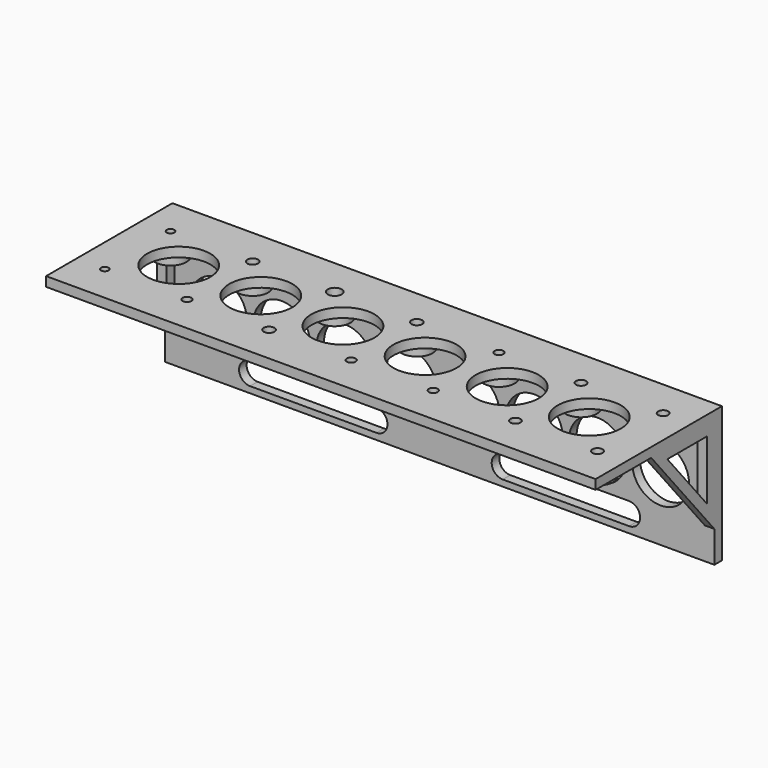
from build123d import *

# Parameters (mm, degrees)
SKETCH_W      = 174
SKETCH_H      = 50
SKETCH_R      = 1.2
SKETCH_R_2    = 1.7
SKETCH_R_3    = 1.4
SKETCH_R_4    = 2.2
SKETCH_R_5    = 1.6
SKETCH_R_6    = 10
PAD_DEPTH     = 3
SKETCH002_W   = 174
SKETCH002_H   = 40
SKETCH002_R   = 9
SKETCH002_R_2 = 1.5
PAD002_DEPTH  = 3
PAD003_DEPTH  = 3
PAD004_DEPTH  = 3
SKETCH001_R   = 5
SKETCH001_R_2 = 1.2
SKETCH001_R_3 = 1.7
SKETCH001_R_4 = 1.4
SKETCH001_R_5 = 2.2
SKETCH001_R_6 = 1.6
PAD001_DEPTH  = 4


with BuildPart() as pad:
    # Sketch → Pad (new body)
    with BuildSketch(Plane.XY):
        Rectangle(SKETCH_W, SKETCH_H)
        with Locations((-78, 13)):
            Circle(SKETCH_R, mode=Mode.SUBTRACT)
        with Locations((-78, -13)):
            Circle(SKETCH_R, mode=Mode.SUBTRACT)
        with Locations((-52, 13)):
            Circle(SKETCH_R_2, mode=Mode.SUBTRACT)
        with Locations((-52, -13)):
            Circle(SKETCH_R_3, mode=Mode.SUBTRACT)
        with Locations((-26, 13)):
            Circle(SKETCH_R_4, mode=Mode.SUBTRACT)
        with Locations((-26, -13)):
            Circle(SKETCH_R_2, mode=Mode.SUBTRACT)
        with Locations((0, 13)):
            Circle(SKETCH_R_2, mode=Mode.SUBTRACT)
        with Locations((0, -13)):
            Circle(SKETCH_R_3, mode=Mode.SUBTRACT)
        with Locations((26, 13)):
            Circle(SKETCH_R_3, mode=Mode.SUBTRACT)
        with Locations((26, -13)):
            Circle(SKETCH_R_3, mode=Mode.SUBTRACT)
        with Locations((52, 13)):
            Circle(SKETCH_R_5, mode=Mode.SUBTRACT)
        with Locations((52, -13)):
            Circle(SKETCH_R_5, mode=Mode.SUBTRACT)
        with Locations((78, 13)):
            Circle(SKETCH_R_5, mode=Mode.SUBTRACT)
        with Locations((78, -13)):
            Circle(SKETCH_R_5, mode=Mode.SUBTRACT)
        with Locations((-39, 0)):
            Circle(SKETCH_R_6, mode=Mode.SUBTRACT)
        with Locations((-13, 0)):
            Circle(SKETCH_R_6, mode=Mode.SUBTRACT)
        with Locations((13, 0)):
            Circle(SKETCH_R_6, mode=Mode.SUBTRACT)
        with Locations((39, 0)):
            Circle(SKETCH_R_6, mode=Mode.SUBTRACT)
        with Locations((65, 0)):
            Circle(SKETCH_R_6, mode=Mode.SUBTRACT)
        with Locations((-65, 0)):
            Circle(SKETCH_R_6, mode=Mode.SUBTRACT)
    extrude(amount=PAD_DEPTH)


with BuildPart() as pad002:
    # Sketch002 → Pad002 (new body)
    with BuildSketch(Plane(origin=(0, 25, -20), x_dir=(1, 0, 0), z_dir=(0, -1, 0))):
        Rectangle(SKETCH002_W, SKETCH002_H)
        with Locations((-70, 0)):
            Circle(SKETCH002_R, mode=Mode.SUBTRACT)
        with Locations((-50, 0)):
            Circle(SKETCH002_R, mode=Mode.SUBTRACT)
        with Locations((-30, 0)):
            Circle(SKETCH002_R, mode=Mode.SUBTRACT)
        with Locations((-10, 0)):
            Circle(SKETCH002_R, mode=Mode.SUBTRACT)
        with Locations((10, 0)):
            Circle(SKETCH002_R, mode=Mode.SUBTRACT)
        with Locations((30, 0)):
            Circle(SKETCH002_R, mode=Mode.SUBTRACT)
        with Locations((50, 0)):
            Circle(SKETCH002_R, mode=Mode.SUBTRACT)
        with Locations((70, 0)):
            Circle(SKETCH002_R, mode=Mode.SUBTRACT)
        with Locations((-75.3, 15)):
            Circle(SKETCH002_R_2, mode=Mode.SUBTRACT)
        with Locations((-25.1, 15)):
            Circle(SKETCH002_R_2, mode=Mode.SUBTRACT)
        with Locations((25.1, 15)):
            Circle(SKETCH002_R_2, mode=Mode.SUBTRACT)
        with Locations((75.3, 15)):
            Circle(SKETCH002_R_2, mode=Mode.SUBTRACT)
        with BuildLine():
            ThreePointArc((-60, -11), (-63.5, -14.5), (-60, -18))
            Line((-60, -18), (-20, -18))
            ThreePointArc((-20, -18), (-16.5, -14.5), (-19.999999, -11))
            Line((-60, -11), (-19.999999, -11))
        make_face(mode=Mode.SUBTRACT)
        with BuildLine():
            ThreePointArc((19.999985, -11), (16.5, -14.500007), (19.999999, -18))
            Line((19.999999, -18), (60.000001, -18))
            ThreePointArc((60.000001, -18), (63.5, -14.499993), (59.999987, -11))
            Line((19.999985, -11), (59.999987, -11))
        make_face(mode=Mode.SUBTRACT)
    extrude(amount=PAD002_DEPTH)


with BuildPart() as pad003:
    # Sketch003 → Pad003 (new body)
    with BuildSketch(Plane(origin=(-87, 22, 0), x_dir=(0, 1, 0), z_dir=(1, 0, 0))):
        Polygon((-25, 0), (0, 0), (0, -30), align=None)
        Polygon((-18.594875, -3), (-3, -3), (-3, -21.71385), align=None, mode=Mode.SUBTRACT)
    extrude(amount=PAD003_DEPTH)


with BuildPart() as pad004:
    # Sketch004 → Pad004 (new body)
    with BuildSketch(Plane(origin=(84, 22, 0), x_dir=(0, 1, 0), z_dir=(1, 0, 0))):
        Polygon((-25, 0), (0, 0), (0, -30), align=None)
        Polygon((-18.594875, -3), (-3, -3), (-3, -21.71385), align=None, mode=Mode.SUBTRACT)
    extrude(amount=PAD004_DEPTH)


with BuildPart() as fusion:
    # Sketch001 → Pad001 (new body)
    with BuildSketch(Plane.XY.offset(-4)):
        with Locations((-78, 13)):
            Circle(SKETCH001_R)
        with Locations((-78, 13)):
            Circle(SKETCH001_R_2, mode=Mode.SUBTRACT)
        with Locations((-78, -13)):
            Circle(SKETCH001_R)
        with Locations((-78, -13)):
            Circle(SKETCH001_R_2, mode=Mode.SUBTRACT)
        with Locations((-52, 13)):
            Circle(SKETCH001_R)
        with Locations((-52, 13)):
            Circle(SKETCH001_R_3, mode=Mode.SUBTRACT)
        with Locations((-52, -13)):
            Circle(SKETCH001_R)
        with Locations((-52, -13)):
            Circle(SKETCH001_R_4, mode=Mode.SUBTRACT)
        with Locations((-26, 13)):
            Circle(SKETCH001_R)
        with Locations((-26, 13)):
            Circle(SKETCH001_R_5, mode=Mode.SUBTRACT)
        with Locations((-26, -13)):
            Circle(SKETCH001_R)
        with Locations((-26, -13)):
            Circle(SKETCH001_R_3, mode=Mode.SUBTRACT)
        with Locations((0, 13)):
            Circle(SKETCH001_R)
        with Locations((0, 13)):
            Circle(SKETCH001_R_3, mode=Mode.SUBTRACT)
        with Locations((0, -13)):
            Circle(SKETCH001_R)
        with Locations((0, -13)):
            Circle(SKETCH001_R_4, mode=Mode.SUBTRACT)
        with Locations((26, 13)):
            Circle(SKETCH001_R)
        with Locations((26, 13)):
            Circle(SKETCH001_R_4, mode=Mode.SUBTRACT)
        with Locations((26, -13)):
            Circle(SKETCH001_R)
        with Locations((26, -13)):
            Circle(SKETCH001_R_4, mode=Mode.SUBTRACT)
        with Locations((52, 13)):
            Circle(SKETCH001_R)
        with Locations((52, 13)):
            Circle(SKETCH001_R_6, mode=Mode.SUBTRACT)
        with Locations((52, -13)):
            Circle(SKETCH001_R)
        with Locations((52, -13)):
            Circle(SKETCH001_R_6, mode=Mode.SUBTRACT)
        with Locations((78, 13)):
            Circle(SKETCH001_R)
        with Locations((78, 13)):
            Circle(SKETCH001_R_6, mode=Mode.SUBTRACT)
        with Locations((78, -13)):
            Circle(SKETCH001_R)
        with Locations((78, -13)):
            Circle(SKETCH001_R_6, mode=Mode.SUBTRACT)
    extrude(amount=PAD001_DEPTH)

    # Fusion: union Pad, Pad002, Pad003, Pad004
    add(pad.part)
    add(pad002.part)
    add(pad003.part)
    add(pad004.part)


solid = fusion.part
